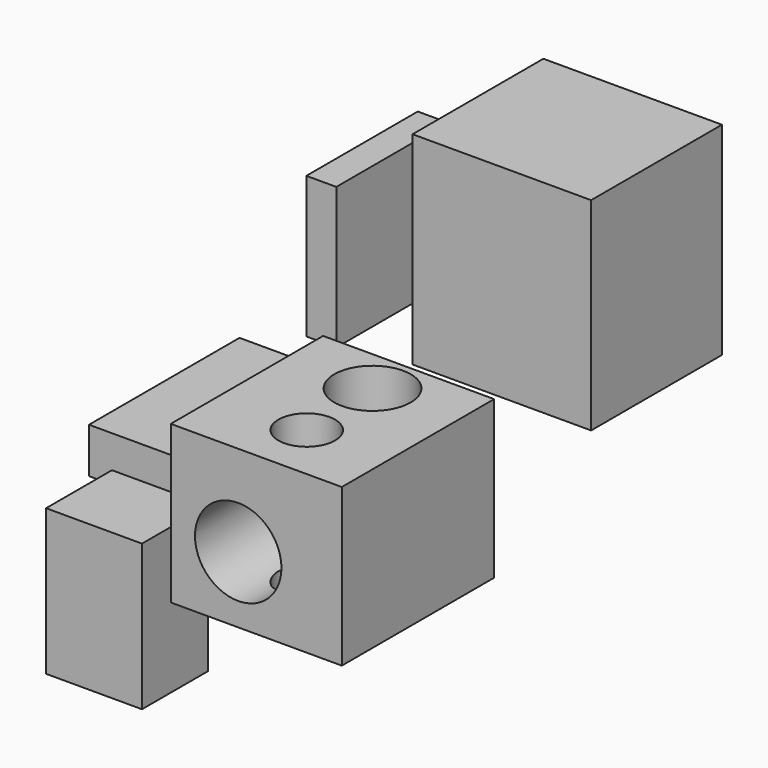
from build123d import *

# Parameters (mm, degrees)
F0_W      = 114.093814
F0_H      = 104.899831
F1_DEPTH  = 63.5
F3_R      = 28.819288
F4_DEPTH  = 181.759881
F7_DEPTH  = 25.4
F8_W      = 108.697593
F8_H      = 30.195445
F9_DEPTH  = 125.476776
F10_W     = 92.900261
F10_H     = 94.313533
F11_DEPTH = 20
F12_R     = 18.897695
F12_R_2   = 25.500808
F13_DEPTH = 174.705634
F14_W     = 54.888762
F14_H     = 97.26797
F15_DEPTH = 63.972233
F16_W     = 119.099848
F16_H     = 135.23142
F17_DEPTH = 109.049382


with BuildPart() as f1:
    # F0 (on Front) → F1 (new body, symmetric)
    with BuildSketch(Plane.XZ):
        with Locations((-2.63801, 8.141744)):
            Rectangle(F0_W, F0_H)
    extrude(amount=F1_DEPTH, both=True)

    # F3 (on face) → F4 (cut)
    with BuildSketch(Plane(origin=(0, 63.5, 0), x_dir=(-1, 0, 0), z_dir=(0, 1, 0))):
        with Locations((14.707234, 0)):
            Circle(F3_R)
    extrude(amount=-F4_DEPTH, mode=Mode.SUBTRACT)

    # F6 (on face) → F7 (join)
    with BuildSketch(Plane(origin=(0, 0, -44.308171), x_dir=(1, 0, 0), z_dir=(0, 0, -1))):
        Polygon((-3.796602, 11.234766), (-24.053921, 23.851941), (-45.109375, 12.617175), (-45.90751, -11.234766), (-25.650191, -23.851941), (-4.594737, -12.617175), align=None)
    extrude(amount=F7_DEPTH)

    # F8 (on face) → F9 (join)
    with BuildSketch(Plane.XZ):
        with Locations((-110.679119, -15.097722)):
            Rectangle(F8_W, F8_H)
    extrude(amount=-F9_DEPTH)

    # F12 (on face) → F13 (cut)
    with BuildSketch(Plane.XY.offset(60.59166)):
        with Locations((0, -24.730466)):
            Circle(F12_R)
        with Locations((-2.63801, 33.408009)):
            Circle(F12_R_2)
    extrude(amount=-F13_DEPTH, mode=Mode.SUBTRACT)

    # F14 (on face) → F15 (join)
    with BuildSketch(Plane(origin=(-59.684917, 0, 0), x_dir=(0, -1, 0), z_dir=(-1, 0, 0))):
        with Locations((60.04278, -48.633985)):
            Rectangle(F14_W, F14_H)
    extrude(amount=F15_DEPTH)


with BuildPart() as f11:
    # F10 (on face) → F11 (new body)
    with BuildSketch(Plane(origin=(-59.684917, 0, 0), x_dir=(0, -1, 0), z_dir=(-1, 0, 0))):
        with Locations((-120.980821, 96.447215)):
            Rectangle(F10_W, F10_H)
    extrude(amount=F11_DEPTH)


with BuildPart() as f17:
    # F16 (on face) → F17 (new body)
    with BuildSketch(Plane(origin=(0, 63.5, 0), x_dir=(-1, 0, 0), z_dir=(0, 1, 0))):
        with Locations((-59.549924, 130.812593)):
            Rectangle(F16_W, F16_H)
    extrude(amount=F17_DEPTH)


solid = Compound([f1.part, f11.part, f17.part])
